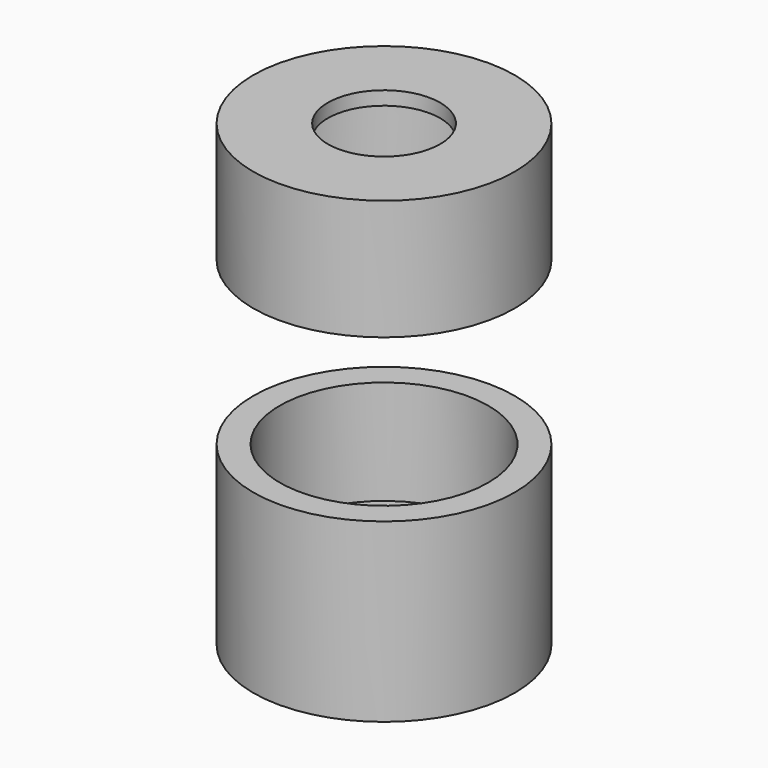
from build123d import *

# Parameters (mm, degrees)
CYLINDER003_R     = 20
CYLINDER003_DEPTH = 20.2
CYLINDER004_R     = 7
CYLINDER004_DEPTH = 20
CYLINDER002_R     = 3.5
CYLINDER002_DEPTH = 20
CYLINDER005_R     = 4.5
CYLINDER005_DEPTH = 20
CYLINDER001_R     = 13
CYLINDER001_DEPTH = 46.5
CYLINDER_R        = 16.3
CYLINDER_DEPTH    = 57.2


with BuildPart() as cylinder003:
    # Cylinder003 → Cylinder003 (new body)
    with BuildSketch(Plane.XY.offset(22)):
        Circle(CYLINDER003_R)
    extrude(amount=CYLINDER003_DEPTH)


with BuildPart() as cylinder004:
    # Cylinder004 → Cylinder004 (new body)
    with BuildSketch(Plane.XY.offset(38)):
        Circle(CYLINDER004_R)
    extrude(amount=CYLINDER004_DEPTH)


with BuildPart() as cylinder002:
    # Cylinder002 → Cylinder002 (new body)
    with BuildSketch(Plane.XY):
        Circle(CYLINDER002_R)
    extrude(amount=CYLINDER002_DEPTH)


with BuildPart() as cylinder005:
    # Cylinder005 → Cylinder005 (new body)
    with BuildSketch(Plane.XY.offset(5)):
        Circle(CYLINDER005_R)
    extrude(amount=CYLINDER005_DEPTH)


with BuildPart() as fusion:
    # Cylinder001 → Cylinder001 (new body)
    with BuildSketch(Plane.XY.offset(9)):
        Circle(CYLINDER001_R)
    extrude(amount=CYLINDER001_DEPTH)

    # Fusion: union Cylinder004, Cylinder002, Cylinder005
    add(cylinder004.part)
    add(cylinder002.part)
    add(cylinder005.part)


with BuildPart() as cut001:
    # Cylinder → Cylinder (new body)
    with BuildSketch(Plane.XY):
        Circle(CYLINDER_R)
    extrude(amount=CYLINDER_DEPTH)

    # Cut: cut Fusion
    add(fusion.part, mode=Mode.SUBTRACT)

    # Cut001: cut Cylinder003
    add(cylinder003.part, mode=Mode.SUBTRACT)


solid = cut001.part
